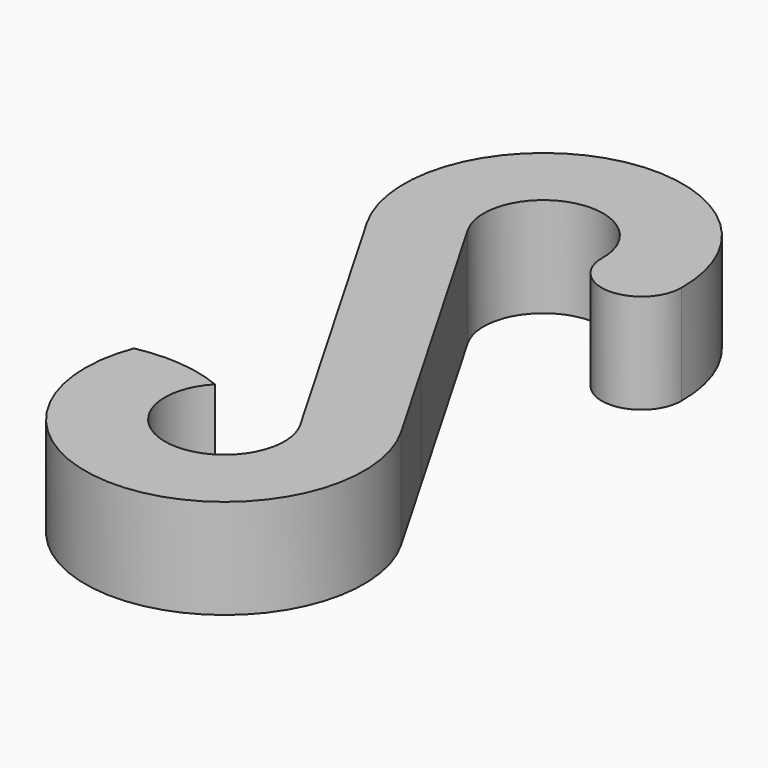
from build123d import *

# Parameters (mm, degrees)
F1_DEPTH = 12.7


with BuildPart() as f1:
    # F0 (on Top) → F1 (new body)
    with BuildSketch(Plane.XY):
        with BuildLine():
            ThreePointArc((17.778243, 25.150034), (-4.480962, 42.606086), (-15.397932, 16.51))
            Line((-15.397932, 16.51), (6.599114, -21.59))
            ThreePointArc((6.599114, -21.59), (-0.93735, -32.962128), (-5.469168, -20.094098))
            ThreePointArc((-5.469168, -20.094098), (-10.966834, -18.752892), (-16.616611, -19.074129))
            ThreePointArc((-16.616611, -19.074129), (1.419501, -43.123245), (15.397932, -16.51))
            Line((15.397932, -16.51), (8.832116, -5.137674))
            Line((8.832116, -5.137674), (-6.599114, 21.59))
            ThreePointArc((-6.599114, 21.59), (-1.869298, 32.787159), (7.617032, 25.187352))
            ThreePointArc((7.617032, 25.187352), (12.678979, 20.088088), (17.778243, 25.150034))
        make_face()
    extrude(amount=F1_DEPTH)


solid = f1.part
